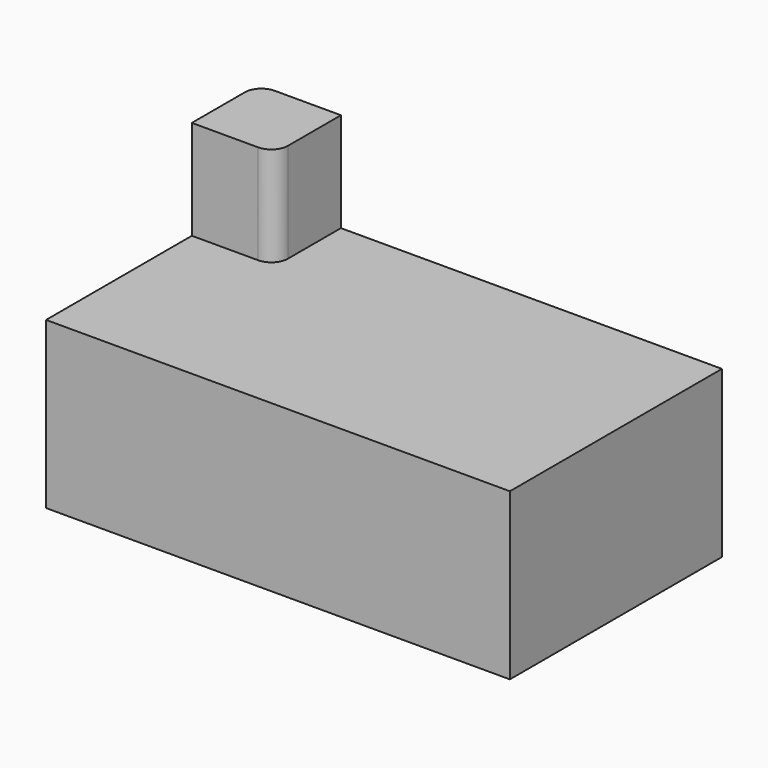
from build123d import *

# Parameters (mm, degrees)
F1_DEPTH = 50
F3_DEPTH = 30
F4_R     = 5


with BuildPart() as f1:
    # F0 (on Top) → F1 (new body)
    with BuildSketch(Plane.XY):
        Polygon((0, 40), (-70, 40), (-70, -40), (0, -40), (0, 0), align=None)
        Polygon((70, 40), (0, 40), (0, 0), (0, -40), (70, -40), align=None)
    extrude(amount=F1_DEPTH)

    # F2 (on face) → F3 (join)
    with BuildSketch(Plane.XY.offset(50)):
        with BuildLine():
            Line((-70, 40), (-70, 15))
            Line((-70, 15), (-50, 15))
            ThreePointArc((-50, 15), (-46.464466, 16.464466), (-45, 20))
            Line((-45, 20), (-45, 40))
            Line((-45, 40), (-70, 40))
        make_face()
    extrude(amount=F3_DEPTH)

    # F4
    f4_edges = [f1.edges().sort_by_distance(p)[0] for p in [
        (-70, 40, 40),
    ]]
    fillet(f4_edges, radius=F4_R)


solid = f1.part
